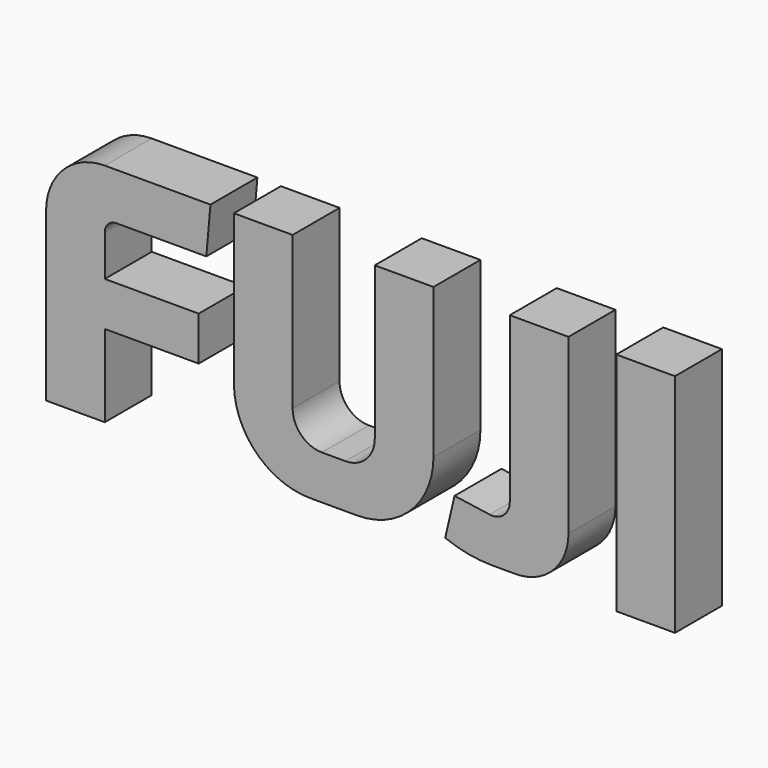
from build123d import *

# Parameters (mm, degrees)
F0_W     = 10
F0_H     = 38.5
F1_DEPTH = 10


with BuildPart() as f1:
    # F0 (on Front) → F1 (new body)
    with BuildSketch(Plane.XZ):
        with BuildLine():
            Line((27.800091, 31), (28.5, 39))
            Line((28.5, 39), (10.5, 39))
            ThreePointArc((10.5, 39), (3.428932, 36.071068), (0.5, 29))
            Line((0.5, 29), (0.5, 0.5))
            Line((0.5, 0.5), (10.5, 0.5))
            Line((10.5, 0.5), (10.5, 14.5))
            Line((10.5, 14.5), (26.5, 14.5))
            Line((26.5, 14.5), (26.5, 22))
            Line((26.5, 22), (10.5, 22))
            Line((10.5, 22), (10.5, 29))
            ThreePointArc((10.5, 29), (11.085786, 30.414214), (12.5, 31))
            Line((12.5, 31), (27.800091, 31))
        make_face()
        with BuildLine():
            Line((51.5, 8), (47.5, 8))
            ThreePointArc((47.5, 8), (43.964466, 9.464466), (42.5, 13))
            Line((42.5, 13), (42.5, 39))
            Line((42.5, 39), (32.5, 39))
            Line((32.5, 39), (32.5, 13.5))
            ThreePointArc((32.5, 13.5), (36.307612, 4.307612), (45.5, 0.5))
            Line((45.5, 0.5), (53.5, 0.5))
            ThreePointArc((53.5, 0.5), (62.692388, 4.307612), (66.5, 13.5))
            Line((66.5, 13.5), (66.5, 39))
            Line((66.5, 39), (56.5, 39))
            Line((56.5, 39), (56.5, 13))
            ThreePointArc((56.5, 13), (55.035534, 9.464466), (51.5, 8))
        make_face()
        with BuildLine():
            Line((89.5, 39), (79.5, 39))
            Line((79.5, 39), (79.5, 10.956046))
            ThreePointArc((79.5, 10.956046), (78.465474, 8.68957), (76.075391, 7.986247))
            Line((76.075391, 7.986247), (70.090932, 8.841878))
            Line((70.090932, 8.841878), (68.5, 2.025065))
            ThreePointArc((68.5, 2.025065), (72.427967, 0.884669), (76.5, 0.5))
            Line((76.5, 0.5), (80.5, 0.5))
            ThreePointArc((80.5, 0.5), (86.863961, 3.136039), (89.5, 9.5))
            Line((89.5, 9.5), (89.5, 39))
        make_face()
        with Locations((102.642857, 19.75)):
            Rectangle(F0_W, F0_H)
    extrude(amount=F1_DEPTH)


solid = f1.part
